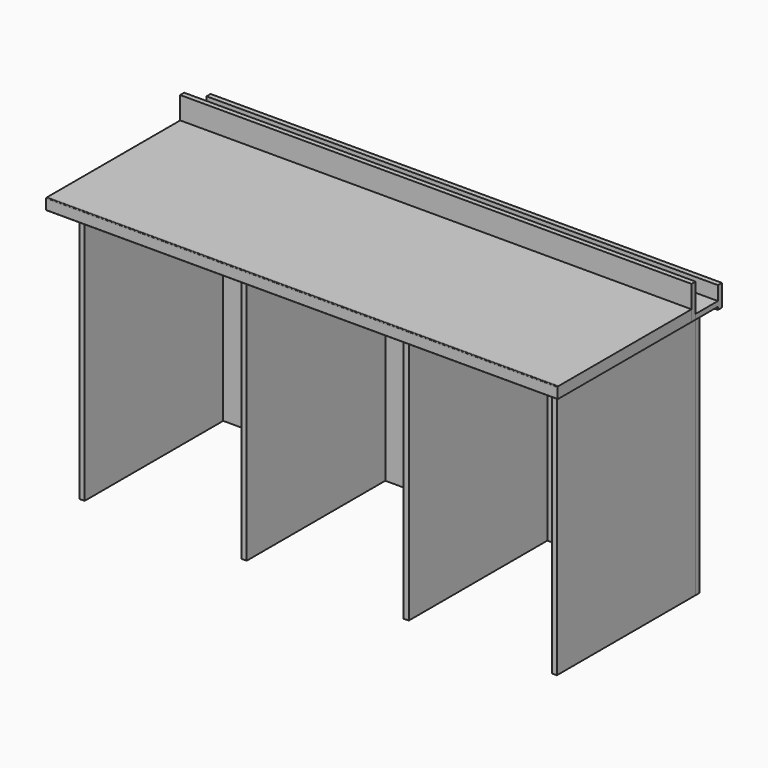
from build123d import *

# Parameters (mm, degrees)
F1_DEPTH  = 1830
F2_R      = 2.5
F3_R      = 20
F5_W      = 620
F5_H      = 910
F6_DEPTH  = 18
F8_W      = 620
F8_H      = 910
F9_DEPTH  = 18
F11_W     = 620
F11_H     = 910
F12_DEPTH = 18
F14_W     = 620
F14_H     = 910
F15_DEPTH = 18
F17_W     = 1780
F17_H     = 910
F18_DEPTH = 18
F20_W     = 1830
F20_H     = 120
F21_DEPTH = 18
F23_W     = 1830
F23_H     = 100
F24_DEPTH = 18
F26_W     = 1830
F26_H     = 78
F27_DEPTH = 18
F29_W     = 50
F29_H     = 150
F30_DEPTH = 56.001
F31_R     = 15


with BuildPart() as f1:
    # F0 (on Right) → F1 (new body)
    with BuildSketch(Plane.YZ):
        Polygon((600, -40), (600, 0), (5, 0), (0, 1), (0, -40), align=None)
    extrude(amount=F1_DEPTH)

    # F2
    f2_edges = [f1.edges().sort_by_distance(p)[0] for p in [
        (915, 0, 1),
        (915, 0, -40),
    ]]
    fillet(f2_edges, radius=F2_R)

    # F3
    f3_edges = [f1.edges().sort_by_distance(p)[0] for p in [
        (915, 5, 0),
    ]]
    fillet(f3_edges, radius=F3_R)


with BuildPart() as f6:
    # F5 (on offset) → F6 (new body)
    with BuildSketch(Plane.YZ.offset(1762)):
        with Locations((370, -495)):
            Rectangle(F5_W, F5_H)
    extrude(amount=F6_DEPTH)


with BuildPart() as f9:
    # F8 (on offset) → F9 (new body)
    with BuildSketch(Plane.YZ.offset(1232)):
        with Locations((370, -495)):
            Rectangle(F8_W, F8_H)
    extrude(amount=F9_DEPTH)


with BuildPart() as f12:
    # F11 (on offset) → F12 (new body)
    with BuildSketch(Plane.YZ.offset(652)):
        with Locations((370, -495)):
            Rectangle(F11_W, F11_H)
    extrude(amount=F12_DEPTH)


with BuildPart() as f15:
    # F14 (on offset) → F15 (new body)
    with BuildSketch(Plane.YZ.offset(72)):
        with Locations((370, -495)):
            Rectangle(F14_W, F14_H)
    extrude(amount=F15_DEPTH)


with BuildPart() as f18:
    # F17 (on offset) → F18 (new body)
    with BuildSketch(Plane(origin=(0, 680, 0), x_dir=(-1, 0, 0), z_dir=(0, 1, 0))):
        with Locations((-890, -495)):
            Rectangle(F17_W, F17_H)
    extrude(amount=F18_DEPTH)

    # F29 (on offset) → F30 (cut, through all)
    with BuildSketch(Plane.XZ.offset(-680)):
        with Locations((25, -875)):
            Rectangle(F29_W, F29_H)
    extrude(amount=-F30_DEPTH, mode=Mode.SUBTRACT)

    # F31
    f31_edges = [f18.edges().sort_by_distance(p)[0] for p in [
        (50, 689, -800),
        (0, 689, -800),
    ]]
    fillet(f31_edges, radius=F31_R)


with BuildPart() as f21:
    # F20 (on offset) → F21 (new body)
    with BuildSketch(Plane(origin=(0, 600, 0), x_dir=(-1, 0, 0), z_dir=(0, 1, 0))):
        with Locations((-915, 20)):
            Rectangle(F20_W, F20_H)
    extrude(amount=F21_DEPTH)


with BuildPart() as f24:
    # F23 (on offset) → F24 (new body)
    with BuildSketch(Plane.XY.offset(-40)):
        with Locations((915, 668)):
            Rectangle(F23_W, F23_H)
    extrude(amount=F24_DEPTH)

    # F26 (on offset) → F27 (join)
    with BuildSketch(Plane(origin=(0, 718, 0), x_dir=(-1, 0, 0), z_dir=(0, 1, 0))):
        with Locations((-915, -11)):
            Rectangle(F26_W, F26_H)
    extrude(amount=F27_DEPTH)


solid = Compound([f1.part, f6.part, f9.part, f12.part, f15.part, f18.part, f21.part, f24.part])
